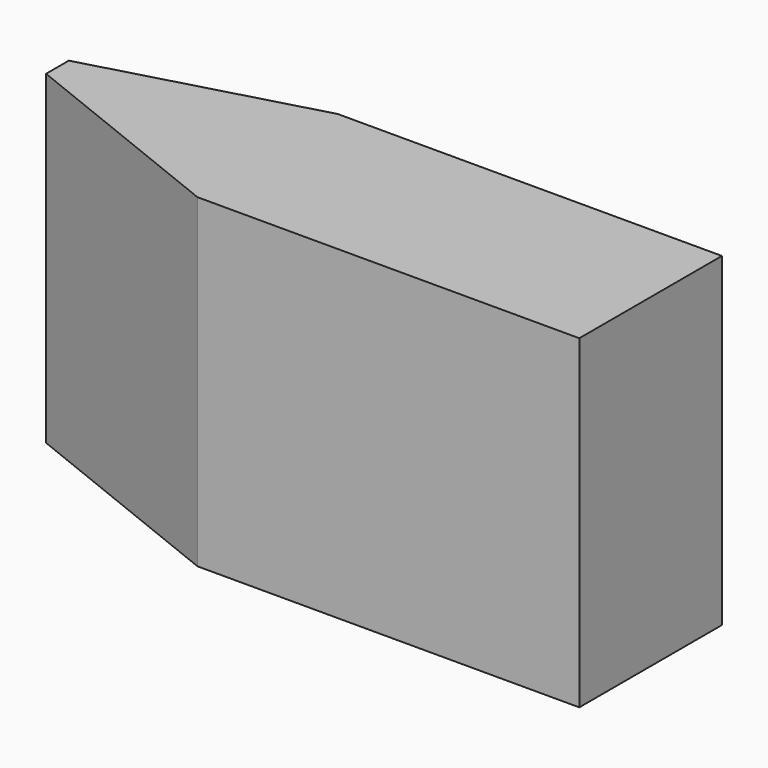
from build123d import *

# Parameters (mm, degrees)
F0_W     = 86.138785
F0_H     = 46.305328
F1_DEPTH = 25.4
F3_DEPTH = 48.26
F5_DEPTH = 50.8


with BuildPart() as f1:
    # F0 (on Front) → F1 (new body)
    with BuildSketch(Plane.XZ):
        with Locations((1.097095, -11.160776)):
            Rectangle(F0_W, F0_H)
    extrude(amount=F1_DEPTH)

    # F2 (on face) → F3 (cut)
    with BuildSketch(Plane(origin=(0, 0, -34.31344), x_dir=(1, 0, 0), z_dir=(0, 0, -1))):
        Polygon((-41.972298, 12.7), (-10.236957, 25.4), (-41.972298, 25.4), align=None)
    extrude(amount=-F3_DEPTH, mode=Mode.SUBTRACT)

    # F4 (on face) → F5 (cut)
    with BuildSketch(Plane(origin=(0, 0, -34.31344), x_dir=(1, 0, 0), z_dir=(0, 0, -1))):
        Polygon((-41.972298, 0), (-10.572781, 0), (-41.972298, 8.64746), align=None)
    extrude(amount=-F5_DEPTH, mode=Mode.SUBTRACT)


solid = f1.part
